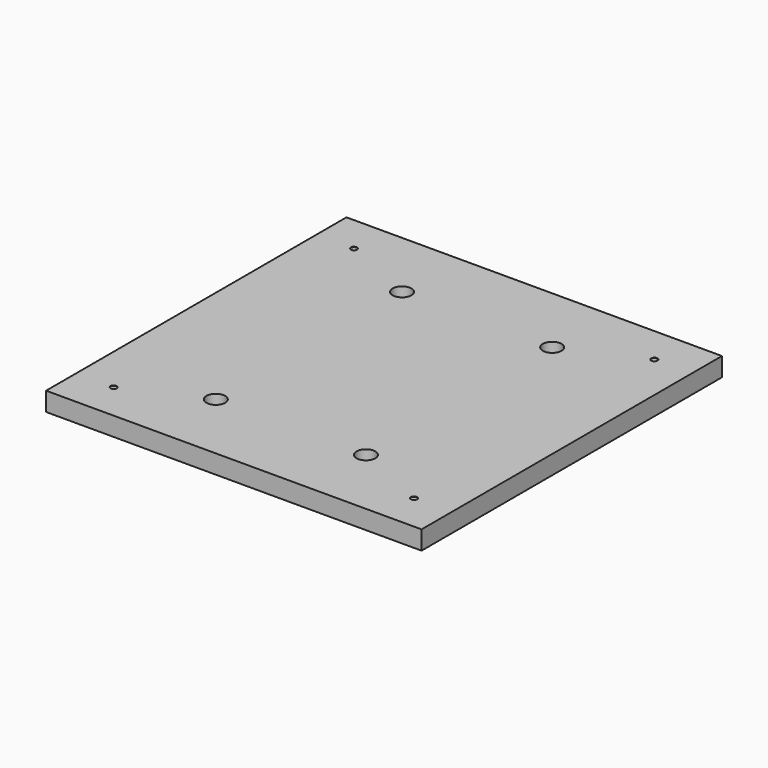
from build123d import *

# Parameters (mm, degrees)
F0_W     = 100
F0_H     = 100
F0_W_2   = 80
F0_H_2   = 80
F1_DEPTH = 5
F3_D     = 5
F4_D     = 5
F4_DEPTH = 4
F4_TIP   = 1.5021515476


with BuildPart() as f1:
    # F0 (on Top) → F1 (new body)
    with BuildSketch(Plane.XY):
        with Locations((40, -40)):
            Rectangle(F0_W, F0_H)
        with Locations((40, -40)):
            Rectangle(F0_W_2, F0_H_2, mode=Mode.SUBTRACT)
        with Locations((40, -40)):
            Rectangle(F0_W_2, F0_H_2)
    extrude(amount=F1_DEPTH)

    # F3 (through all)
    with Locations(Plane(origin=(0, 0, 0), x_dir=(1, 0, 0), z_dir=(0, 0, -1))):
        with Locations((20, 9), (60, 9), (60, 71), (20, 71)):
            Hole(F3_D / 2)

    # F4
    with Locations(Plane(origin=(0, 0, 0), x_dir=(1, 0, 0), z_dir=(0, 0, -1))):
        with Locations((0, 80), (80, 80), (80, 0), (0, 0)):
            Hole(F4_D / 2, depth=F4_DEPTH)
            with Locations((0, 0, -(F4_DEPTH + F4_TIP / 2))):  # 118° drill point
                Cone(0, F4_D / 2, F4_TIP, mode=Mode.SUBTRACT)


solid = f1.part
